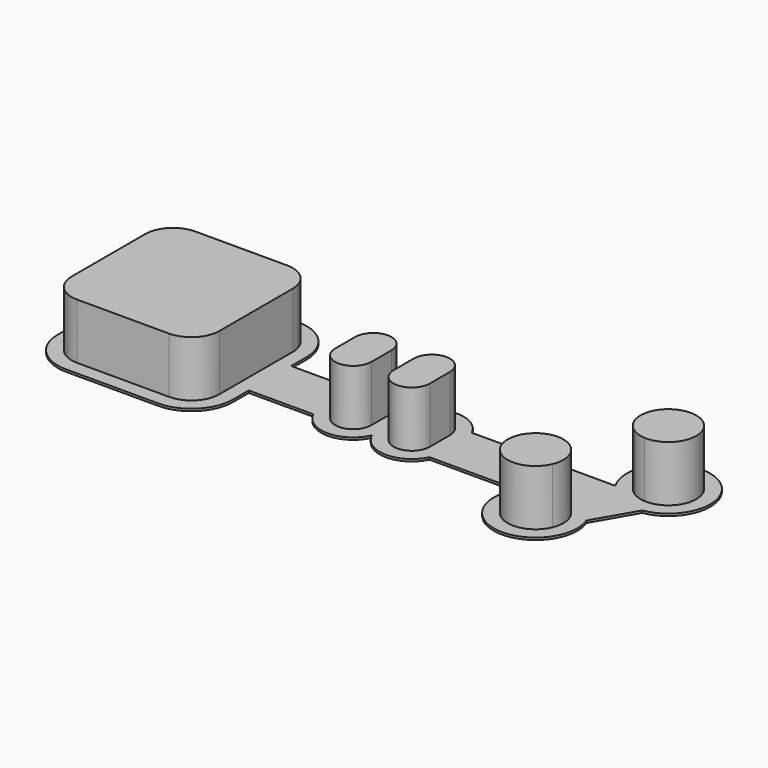
from build123d import *

# Parameters (mm, degrees)
F0_W     = 16
F0_H     = 4.5
F0_W_2   = 6.5
F0_W_3   = 4
F1_DEPTH = 0.4
F2_W     = 6.5
F2_H     = 4.5
F3_DEPTH = 10


with BuildPart() as f1:
    # F0 (on Top) → F1 (new body)
    with BuildSketch(Plane.XY):
        with BuildLine():
            Line((15.75, 4.75), (15.75, 8.25))
            ThreePointArc((15.75, 8.25), (13.5533008589, 13.5533008589), (8.25, 15.75))
            Line((8.25, 15.75), (-8.25, 15.75))
            ThreePointArc((-8.25, 15.75), (-13.5533008589, 13.5533008589), (-15.75, 8.25))
            Line((-15.75, 8.25), (-15.75, -8.25))
            ThreePointArc((-15.75, -8.25), (-13.5533008589, -13.5533008589), (-8.25, -15.75))
            Line((-8.25, -15.75), (8.25, -15.75))
            ThreePointArc((8.25, -15.75), (13.5533008589, -13.5533008589), (15.75, -8.25))
            Line((15.75, -8.25), (15.75, -4.75))
            Line((15.75, -4.75), (27.3219212057, -4.75))
            ThreePointArc((27.3219212057, -4.75), (32.5853423404, -7.9993666334), (37.75, -4.5952078799))
            ThreePointArc((37.75, -4.5952078799), (42.9146576596, -7.9993666334), (48.1780787943, -4.75))
            Line((48.1780787943, -4.75), (63.9480829801, -4.75))
            ThreePointArc((63.9480829801, -4.75), (66.8968372515, -15.3190038936), (77.2327151222, -11.6354426145))
            ThreePointArc((77.2327151222, -11.6354426145), (77.8460434738, -8.8348591092), (77.3637435709, -6.0087617221))
            Line((77.3637435709, -6.0087617221), (81.5596501878, 1.2587617221))
            ThreePointArc((81.5596501878, 1.2587617221), (86.5931791372, 12.813408194), (73.9909516796, 12.6398228195))
            ThreePointArc((73.9909516796, 12.6398228195), (72.8481869165, 8.7010040658), (73.9480829801, 4.75))
            Line((73.9480829801, 4.75), (48.1780787943, 4.75))
            ThreePointArc((48.1780787943, 4.75), (42.9146576596, 7.9993666334), (37.75, 4.5952078799))
            ThreePointArc((37.75, 4.5952078799), (32.5853423404, 7.9993666334), (27.3219212057, 4.75))
            Line((27.3219212057, 4.75), (15.75, 4.75))
        make_face()
        with BuildLine():
            ThreePointArc((13.25, -8.25), (11.7855339059, -11.7855339059), (8.25, -13.25))
            Line((8.25, -13.25), (4.5, -13.25))
            Line((4.5, -13.25), (-4.5, -13.25))
            Line((-4.5, -13.25), (-8.25, -13.25))
            ThreePointArc((-8.25, -13.25), (-11.7855339059, -11.7855339059), (-13.25, -8.25))
            Line((-13.25, -8.25), (-13.25, -4.5))
            Line((-13.25, -4.5), (-13.25, 4.5))
            Line((-13.25, 4.5), (-13.25, 8.25))
            ThreePointArc((-13.25, 8.25), (-11.7855339059, 11.7855339059), (-8.25, 13.25))
            Line((-8.25, 13.25), (-4.5, 13.25))
            Line((-4.5, 13.25), (4.5, 13.25))
            Line((4.5, 13.25), (8.25, 13.25))
            ThreePointArc((8.25, 13.25), (11.7855339059, 11.7855339059), (13.25, 8.25))
            Line((13.25, 8.25), (13.25, 4.5))
            Line((13.25, 4.5), (13.25, 2.25))
            Line((13.25, 2.25), (29.25, 2.25))
            ThreePointArc((29.25, 2.25), (32.5, 5.5), (35.75, 2.25))
            Line((35.75, 2.25), (39.75, 2.25))
            ThreePointArc((39.75, 2.25), (43, 5.5), (46.25, 2.25))
            Line((46.25, 2.25), (74.0490381057, 2.25))
            Line((74.0490381057, 2.25), (76.1669476654, 5.9183269633))
            ThreePointArc((76.1669476654, 5.9183269633), (75.3483548112, 8.6074722144), (76.1099931902, 11.3132998923))
            ThreePointArc((76.1099931902, 11.3132998923), (84.7892183681, 10.9572643434), (80.0640619824, 3.6683269633))
            Line((80.0640619824, 3.6683269633), (74.5292047573, -5.9183269633))
            ThreePointArc((74.5292047573, -5.9183269633), (75.3294853289, -8.2294835611), (74.9378354853, -10.643713089))
            ThreePointArc((74.9378354853, -10.643713089), (66.0933823399, -11.2865784771), (70.6320904403, -3.6683269633))
            Line((70.6320904403, -3.6683269633), (71.4509618943, -2.25))
            Line((71.4509618943, -2.25), (46.25, -2.25))
            ThreePointArc((46.25, -2.25), (43, -5.5), (39.75, -2.25))
            Line((39.75, -2.25), (35.75, -2.25))
            ThreePointArc((35.75, -2.25), (32.5, -5.5), (29.25, -2.25))
            Line((29.25, -2.25), (13.25, -2.25))
            Line((13.25, -2.25), (13.25, -4.5))
            Line((13.25, -4.5), (13.25, -8.25))
        make_face(mode=Mode.SUBTRACT)
        Polygon((46.25, 2.25), (46.25, -2.25), (71.4509618943, -2.25), (74.0490381057, 2.25), align=None)
        Polygon((-4.5, 4.5), (0, 4.5), (4.5, 4.5), (4.5, 13.25), (-4.5, 13.25), align=None)
        Polygon((-13.25, -4.5), (-4.5, -4.5), (-4.5, 0), (-4.5, 4.5), (-13.25, 4.5), align=None)
        Polygon((4.5, 0), (4.5, -4.5), (13.25, -4.5), (13.25, -2.25), (13.25, 2.25), (13.25, 4.5), (4.5, 4.5), align=None)
        Polygon((-4.5, -13.25), (4.5, -13.25), (4.5, -4.5), (0, -4.5), (-4.5, -4.5), align=None)
        with BuildLine():
            ThreePointArc((74.5292047573, -5.9183269633), (72.8480762114, -4.3301270189), (70.6320904403, -3.6683269633))
            ThreePointArc((70.6320904403, -3.6683269633), (66.0933823399, -11.2865784771), (74.9378354853, -10.643713089))
            ThreePointArc((74.9378354853, -10.643713089), (75.3294853289, -8.2294835611), (74.5292047573, -5.9183269633))
        make_face()
        with BuildLine():
            ThreePointArc((76.1099931902, 11.3132998923), (75.3483548112, 8.6074722144), (76.1669476654, 5.9183269633))
            ThreePointArc((76.1669476654, 5.9183269633), (77.8480762114, 4.3301270189), (80.0640619824, 3.6683269633))
            ThreePointArc((80.0640619824, 3.6683269633), (84.7892183681, 10.9572643434), (76.1099931902, 11.3132998923))
        make_face()
        with Locations((21.25, 0)):
            Rectangle(F0_W, F0_H)
        with BuildLine():
            Line((4.5, 13.25), (4.5, 4.5))
            Line((4.5, 4.5), (13.25, 4.5))
            Line((13.25, 4.5), (13.25, 8.25))
            ThreePointArc((13.25, 8.25), (11.7855339059, 11.7855339059), (8.25, 13.25))
            Line((8.25, 13.25), (4.5, 13.25))
        make_face()
        with BuildLine():
            Line((-13.25, 4.5), (-4.5, 4.5))
            Line((-4.5, 4.5), (-4.5, 13.25))
            Line((-4.5, 13.25), (-8.25, 13.25))
            ThreePointArc((-8.25, 13.25), (-11.7855339059, 11.7855339059), (-13.25, 8.25))
            Line((-13.25, 8.25), (-13.25, 4.5))
        make_face()
        with BuildLine():
            Line((4.5, -13.25), (8.25, -13.25))
            ThreePointArc((8.25, -13.25), (11.7855339059, -11.7855339059), (13.25, -8.25))
            Line((13.25, -8.25), (13.25, -4.5))
            Line((13.25, -4.5), (4.5, -4.5))
            Line((4.5, -4.5), (4.5, -13.25))
        make_face()
        with BuildLine():
            Line((-8.25, -13.25), (-4.5, -13.25))
            Line((-4.5, -13.25), (-4.5, -4.5))
            Line((-4.5, -4.5), (-13.25, -4.5))
            Line((-13.25, -4.5), (-13.25, -8.25))
            ThreePointArc((-13.25, -8.25), (-11.7855339059, -11.7855339059), (-8.25, -13.25))
        make_face()
        with BuildLine():
            ThreePointArc((0, -4.5), (3.1819805153, -3.1819805153), (4.5, 0))
            ThreePointArc((4.5, 0), (3.1819805153, 3.1819805153), (0, 4.5))
            ThreePointArc((0, 4.5), (-3.1819805153, 3.1819805153), (-4.5, 0))
            ThreePointArc((-4.5, 0), (-3.1819805153, -3.1819805153), (0, -4.5))
        make_face()
        with BuildLine():
            Line((74.0490381057, 2.25), (71.4509618943, -2.25))
            Line((71.4509618943, -2.25), (70.6320904403, -3.6683269633))
            ThreePointArc((70.6320904403, -3.6683269633), (72.8480762114, -4.3301270189), (74.5292047573, -5.9183269633))
            Line((74.5292047573, -5.9183269633), (80.0640619824, 3.6683269633))
            ThreePointArc((80.0640619824, 3.6683269633), (77.8480762114, 4.3301270189), (76.1669476654, 5.9183269633))
            Line((76.1669476654, 5.9183269633), (74.0490381057, 2.25))
        make_face()
        with Locations((32.5, 0)):
            Rectangle(F0_W_2, F0_H)
        with Locations((43, 0)):
            Rectangle(F0_W_2, F0_H)
        with Locations((37.75, 0)):
            Rectangle(F0_W_3, F0_H)
        with BuildLine():
            Line((35.75, -2.25), (29.25, -2.25))
            ThreePointArc((29.25, -2.25), (32.5, -5.5), (35.75, -2.25))
        make_face()
        with BuildLine():
            ThreePointArc((35.75, 2.25), (32.5, 5.5), (29.25, 2.25))
            Line((29.25, 2.25), (35.75, 2.25))
        make_face()
        with BuildLine():
            Line((46.25, -2.25), (39.75, -2.25))
            ThreePointArc((39.75, -2.25), (43, -5.5), (46.25, -2.25))
        make_face()
        with BuildLine():
            ThreePointArc((46.25, 2.25), (43, 5.5), (39.75, 2.25))
            Line((39.75, 2.25), (46.25, 2.25))
        make_face()
        with BuildLine():
            Line((0, -4.5), (4.5, -4.5))
            Line((4.5, -4.5), (4.5, 0))
            ThreePointArc((4.5, 0), (3.1819805153, -3.1819805153), (0, -4.5))
        make_face()
        with BuildLine():
            Line((-4.5, 4.5), (-4.5, 0))
            ThreePointArc((-4.5, 0), (-3.1819805153, 3.1819805153), (0, 4.5))
            Line((0, 4.5), (-4.5, 4.5))
        make_face()
        with BuildLine():
            Line((-4.5, 0), (-4.5, -4.5))
            Line((-4.5, -4.5), (0, -4.5))
            ThreePointArc((0, -4.5), (-3.1819805153, -3.1819805153), (-4.5, 0))
        make_face()
        with BuildLine():
            ThreePointArc((0, 4.5), (3.1819805153, 3.1819805153), (4.5, 0))
            Line((4.5, 0), (4.5, 4.5))
            Line((4.5, 4.5), (0, 4.5))
        make_face()
    extrude(amount=F1_DEPTH)

    # F2 (on face) → F3 (join)
    with BuildSketch(Plane.XY.offset(0.4)):
        Polygon((-4.5, -13.25), (4.5, -13.25), (4.5, -4.5), (0, -4.5), (-4.5, -4.5), align=None)
        with BuildLine():
            Line((35.75, -2.25), (29.25, -2.25))
            ThreePointArc((29.25, -2.25), (32.5, -5.5), (35.75, -2.25))
        make_face()
        with BuildLine():
            ThreePointArc((35.75, 2.25), (32.5, 5.5), (29.25, 2.25))
            Line((29.25, 2.25), (35.75, 2.25))
        make_face()
        with Locations((32.5, 0)):
            Rectangle(F2_W, F2_H)
        with BuildLine():
            ThreePointArc((46.25, 2.25), (43, 5.5), (39.75, 2.25))
            Line((39.75, 2.25), (46.25, 2.25))
        make_face()
        with Locations((43, 0)):
            Rectangle(F2_W, F2_H)
        with BuildLine():
            Line((46.25, -2.25), (39.75, -2.25))
            ThreePointArc((39.75, -2.25), (43, -5.5), (46.25, -2.25))
        make_face()
        with BuildLine():
            ThreePointArc((72.8480762114, -4.3301270189), (71.7788727151, -3.8693437522), (70.6320904403, -3.6683269633))
            ThreePointArc((70.6320904403, -3.6683269633), (66.0933823399, -11.2865784771), (74.9378354853, -10.643713089))
            ThreePointArc((74.9378354853, -10.643713089), (75.3294853289, -8.2294835611), (74.5292047573, -5.9183269633))
            ThreePointArc((74.5292047573, -5.9183269633), (73.7817279741, -5.0256927751), (72.8480762114, -4.3301270189))
        make_face()
        with BuildLine():
            ThreePointArc((76.1099931902, 11.3132998923), (75.3483548112, 8.6074722144), (76.1669476654, 5.9183269633))
            ThreePointArc((76.1669476654, 5.9183269633), (76.9144244486, 5.0256927751), (77.8480762114, 4.3301270189))
            ThreePointArc((77.8480762114, 4.3301270189), (78.9172797076, 3.8693437522), (80.0640619824, 3.6683269633))
            ThreePointArc((80.0640619824, 3.6683269633), (84.7892183681, 10.9572643434), (76.1099931902, 11.3132998923))
        make_face()
        Polygon((-13.25, -4.5), (-4.5, -4.5), (-4.5, 0), (-4.5, 4.5), (-13.25, 4.5), align=None)
        Polygon((4.5, 0), (4.5, -4.5), (13.25, -4.5), (13.25, -2.25), (13.25, 2.25), (13.25, 4.5), (4.5, 4.5), align=None)
        Polygon((-4.5, 4.5), (0, 4.5), (4.5, 4.5), (4.5, 13.25), (-4.5, 13.25), align=None)
        with BuildLine():
            Line((4.5, -13.25), (8.25, -13.25))
            ThreePointArc((8.25, -13.25), (11.7855339059, -11.7855339059), (13.25, -8.25))
            Line((13.25, -8.25), (13.25, -4.5))
            Line((13.25, -4.5), (4.5, -4.5))
            Line((4.5, -4.5), (4.5, -13.25))
        make_face()
        with BuildLine():
            Line((4.5, 13.25), (4.5, 4.5))
            Line((4.5, 4.5), (13.25, 4.5))
            Line((13.25, 4.5), (13.25, 8.25))
            ThreePointArc((13.25, 8.25), (11.7855339059, 11.7855339059), (8.25, 13.25))
            Line((8.25, 13.25), (4.5, 13.25))
        make_face()
        with BuildLine():
            Line((-13.25, 4.5), (-4.5, 4.5))
            Line((-4.5, 4.5), (-4.5, 13.25))
            Line((-4.5, 13.25), (-8.25, 13.25))
            ThreePointArc((-8.25, 13.25), (-11.7855339059, 11.7855339059), (-13.25, 8.25))
            Line((-13.25, 8.25), (-13.25, 4.5))
        make_face()
        with BuildLine():
            Line((-8.25, -13.25), (-4.5, -13.25))
            Line((-4.5, -13.25), (-4.5, -4.5))
            Line((-4.5, -4.5), (-13.25, -4.5))
            Line((-13.25, -4.5), (-13.25, -8.25))
            ThreePointArc((-13.25, -8.25), (-11.7855339059, -11.7855339059), (-8.25, -13.25))
        make_face()
        with BuildLine():
            ThreePointArc((0, -4.5), (3.1819805153, -3.1819805153), (4.5, 0))
            ThreePointArc((4.5, 0), (3.1819805153, 3.1819805153), (0, 4.5))
            ThreePointArc((0, 4.5), (-3.1819805153, 3.1819805153), (-4.5, 0))
            ThreePointArc((-4.5, 0), (-3.1819805153, -3.1819805153), (0, -4.5))
        make_face()
        with BuildLine():
            Line((0, -4.5), (4.5, -4.5))
            Line((4.5, -4.5), (4.5, 0))
            ThreePointArc((4.5, 0), (3.1819805153, -3.1819805153), (0, -4.5))
        make_face()
        with BuildLine():
            ThreePointArc((0, 4.5), (3.1819805153, 3.1819805153), (4.5, 0))
            Line((4.5, 0), (4.5, 4.5))
            Line((4.5, 4.5), (0, 4.5))
        make_face()
        with BuildLine():
            Line((-4.5, 4.5), (-4.5, 0))
            ThreePointArc((-4.5, 0), (-3.1819805153, 3.1819805153), (0, 4.5))
            Line((0, 4.5), (-4.5, 4.5))
        make_face()
        with BuildLine():
            Line((-4.5, 0), (-4.5, -4.5))
            Line((-4.5, -4.5), (0, -4.5))
            ThreePointArc((0, -4.5), (-3.1819805153, -3.1819805153), (-4.5, 0))
        make_face()
    extrude(amount=F3_DEPTH)


solid = f1.part
